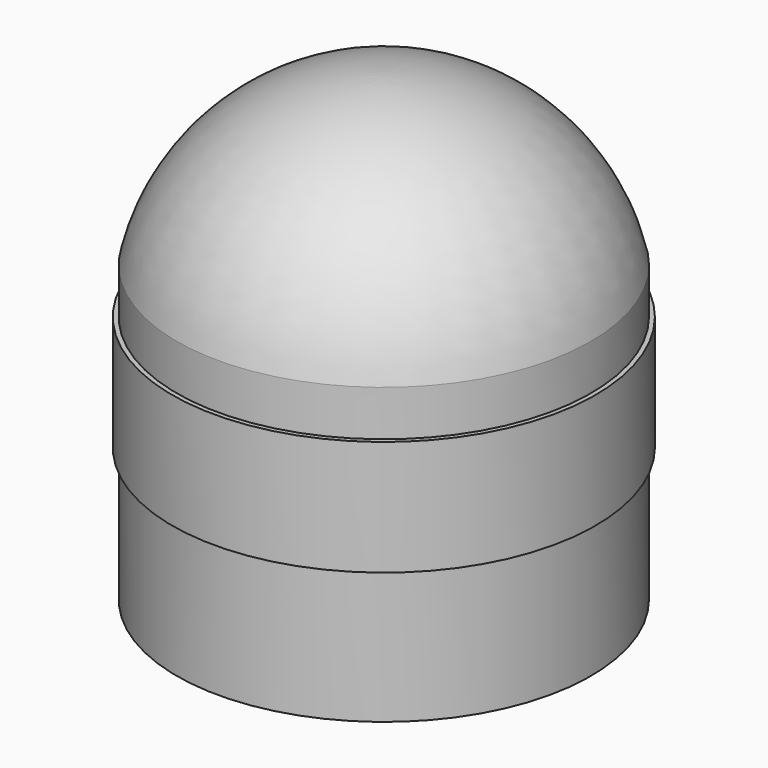
from build123d import *


with BuildPart() as f1:
    # F0 (on Right) → F1 (revolve)
    with BuildSketch(Plane.YZ):
        with BuildLine():
            Line((0, 12.7), (0, 0))
            Line((0, 0), (5.715, 0))
            Line((5.715, 0), (5.715, 3.693184))
            Line((5.715, 3.693184), (5.842, 3.693184))
            Line((5.842, 3.693184), (5.842, 6.868184))
            Line((5.842, 6.868184), (5.715, 6.868184))
            Line((5.715, 6.868184), (5.715, 8.12951))
            ThreePointArc((5.715, 8.12951), (3.658914, 11.416853), (0, 12.7))
        make_face()
    revolve(axis=Axis((0, 0, 6.35), (0, 0, -1)))


solid = f1.part
